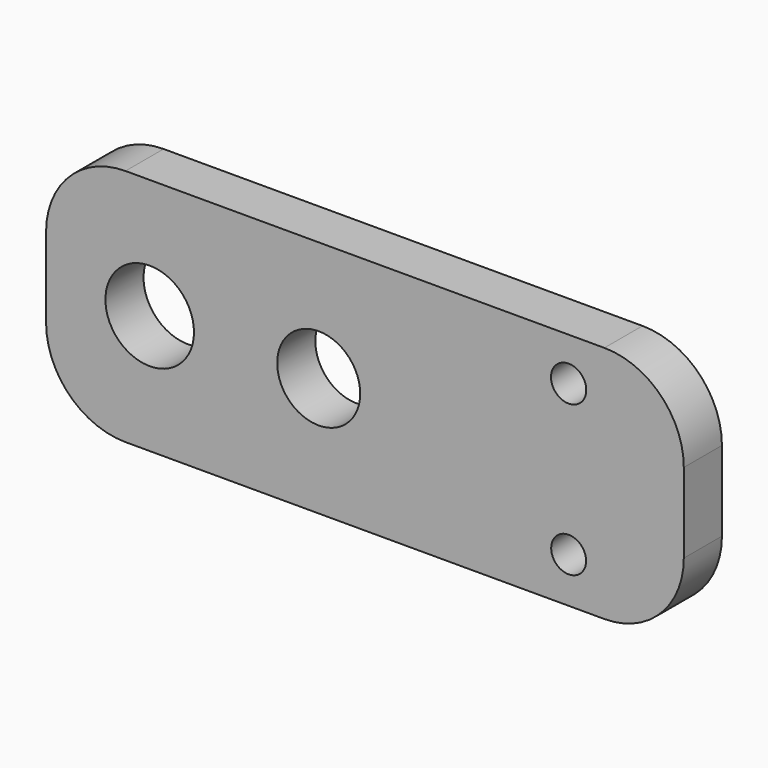
from build123d import *

# Parameters (mm, degrees)
F0_R     = 2.787797
F0_R_2   = 2.613336
F1_DEPTH = 3
F2_R     = 1.110605
F2_R_2   = 1.099003
F3_DEPTH = 25


with BuildPart() as f1:
    # F0 (on Front) → F1 (new body)
    with BuildSketch(Plane.XZ):
        with BuildLine():
            Line((15.031415, 7.53661), (-15.120215, 7.53661))
            ThreePointArc((-15.120215, 7.53661), (-18.655749, 6.072144), (-20.120215, 2.53661))
            Line((-20.120215, 2.53661), (-20.120215, -2.491496))
            ThreePointArc((-20.120215, -2.491496), (-18.655749, -6.02703), (-15.120215, -7.491496))
            Line((-15.120215, -7.491496), (15.031415, -7.491496))
            ThreePointArc((15.031415, -7.491496), (18.566949, -6.02703), (20.031415, -2.491496))
            Line((20.031415, -2.491496), (20.031415, 2.53661))
            ThreePointArc((20.031415, 2.53661), (18.566949, 6.072144), (15.031415, 7.53661))
        make_face()
        with Locations((-13.596544, 0)):
            Circle(F0_R, mode=Mode.SUBTRACT)
        with Locations((-2.956751, 0)):
            Circle(F0_R_2, mode=Mode.SUBTRACT)
    extrude(amount=F1_DEPTH)

    # F2 (on face) → F3 (cut)
    with BuildSketch(Plane(origin=(0, 0, 0), x_dir=(-1, 0, 0), z_dir=(0, 1, 0))):
        with Locations((-12.780892, 4.825667)):
            Circle(F2_R)
        with Locations((-12.780892, -4.649186)):
            Circle(F2_R_2)
    extrude(amount=-F3_DEPTH, mode=Mode.SUBTRACT)


solid = f1.part
